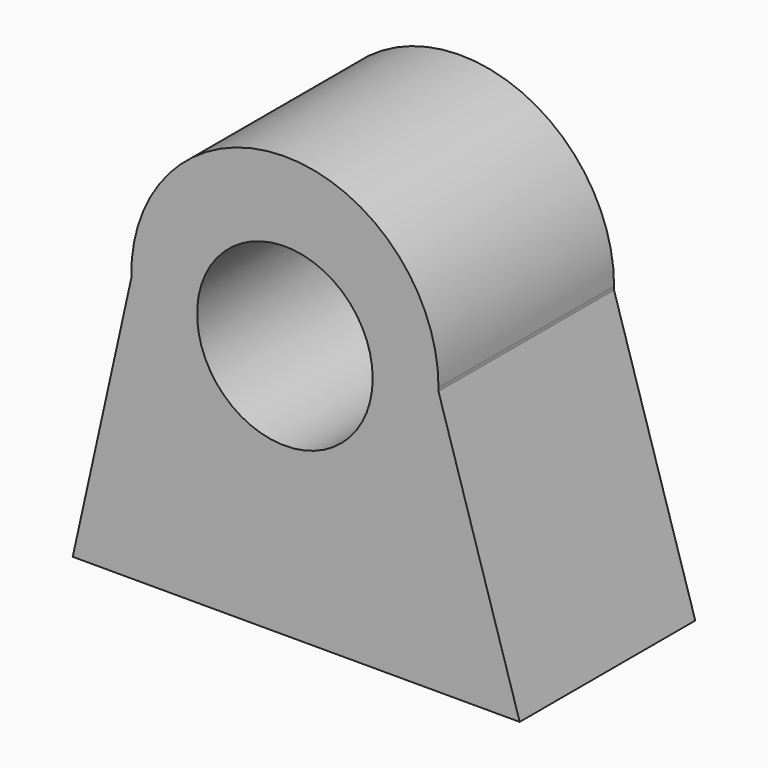
from build123d import *

# Parameters (mm, degrees)
F0_R     = 50.8
F1_DEPTH = 127


with BuildPart() as f1:
    # F0 (on Front) → F1 (new body)
    with BuildSketch(Plane.XZ):
        with BuildLine():
            ThreePointArc((88.878198, 55.084288), (88.894549, 56.068602), (88.9, 57.053037))
            ThreePointArc((88.9, 57.053037), (-0.984435, 145.947586), (-88.878198, 55.084288))
            ThreePointArc((-88.878198, 55.084288), (0, -31.846963), (88.878198, 55.084288))
        make_face()
        with Locations((0, 49.349234)):
            Circle(F0_R, mode=Mode.SUBTRACT)
        with BuildLine():
            ThreePointArc((88.878198, 55.084288), (0, -31.846963), (-88.878198, 55.084288))
            Line((-88.878198, 55.084288), (-122.773595, -97.942352))
            Line((-122.773595, -97.942352), (-84.673595, -97.942352))
            Line((-84.673595, -97.942352), (-77.228464, -97.942352))
            Line((-77.228464, -97.942352), (49.771536, -97.942352))
            Line((49.771536, -97.942352), (63.455388, -97.942352))
            Line((63.455388, -97.942352), (117.76977, -97.942352))
            Line((117.76977, -97.942352), (126.955388, -97.942352))
            Line((126.955388, -97.942352), (135.867521, -97.942352))
            Line((135.867521, -97.942352), (88.878198, 55.084288))
        make_face()
    extrude(amount=F1_DEPTH)


solid = f1.part
